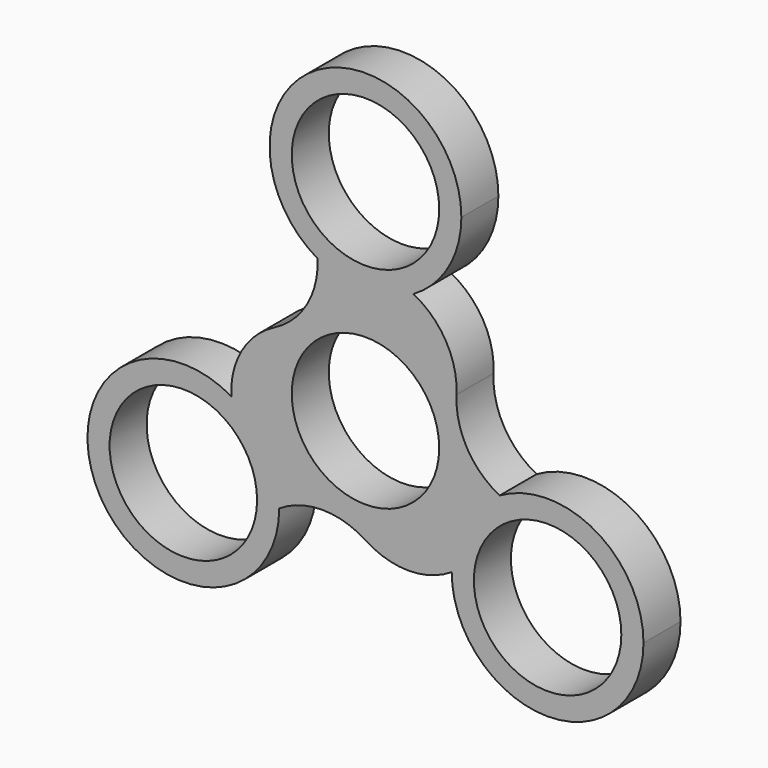
from build123d import *

# Parameters (mm, degrees)
F0_R     = 11.15
F1_DEPTH = 7


with BuildPart() as f1:
    # F0 (on Front) → F1 (new body)
    with BuildSketch(Plane.XZ):
        with BuildLine():
            ThreePointArc((7.25, 19.245167), (12.557368, 24.552535), (14.5, 31.802535))
            ThreePointArc((14.5, 31.802535), (-7.25, 44.359903), (-7.25, 19.245167))
            ThreePointArc((-7.25, 19.245167), (0, 17.302535), (7.25, 19.245167))
        make_face()
        with Locations((0, 31.802535)):
            Circle(F0_R, mode=Mode.SUBTRACT)
        with BuildLine():
            ThreePointArc((7.25, 19.245167), (0, 17.302535), (-7.25, 19.245167))
            ThreePointArc((-7.25, 19.245167), (-8.842158, 12.634711), (-13.770902, 7.950634))
            ThreePointArc((-13.770902, 7.950634), (-18.699646, 3.266557), (-20.291803, -3.343899))
            ThreePointArc((-20.291803, -3.343899), (-14.984435, -8.651268), (-13.041803, -15.901268))
            ThreePointArc((-13.041803, -15.901268), (-6.520902, -13.974889), (0, -15.901268))
            ThreePointArc((0, -15.901268), (6.520902, -17.827646), (13.041803, -15.901268))
            ThreePointArc((13.041803, -15.901268), (14.984435, -8.651268), (20.291803, -3.343899))
            ThreePointArc((20.291803, -3.343899), (15.363059, 1.340178), (13.770902, 7.950634))
            ThreePointArc((13.770902, 7.950634), (12.178744, 14.56109), (7.25, 19.245167))
        make_face()
        Circle(F0_R, mode=Mode.SUBTRACT)
        with BuildLine():
            ThreePointArc((-13.041803, -15.901268), (-14.984435, -8.651268), (-20.291803, -3.343899))
            ThreePointArc((-20.291803, -3.343899), (-40.099172, -23.151268), (-13.041803, -15.901268))
        make_face()
        with Locations((-27.541803, -15.901268)):
            Circle(F0_R, mode=Mode.SUBTRACT)
        with BuildLine():
            ThreePointArc((42.041803, -15.901268), (34.791803, -3.343899), (20.291803, -3.343899))
            ThreePointArc((20.291803, -3.343899), (14.984435, -8.651268), (13.041803, -15.901268))
            ThreePointArc((13.041803, -15.901268), (27.541803, -30.401268), (42.041803, -15.901268))
        make_face()
        with Locations((27.541803, -15.901268)):
            Circle(F0_R, mode=Mode.SUBTRACT)
    extrude(amount=F1_DEPTH)


solid = f1.part
